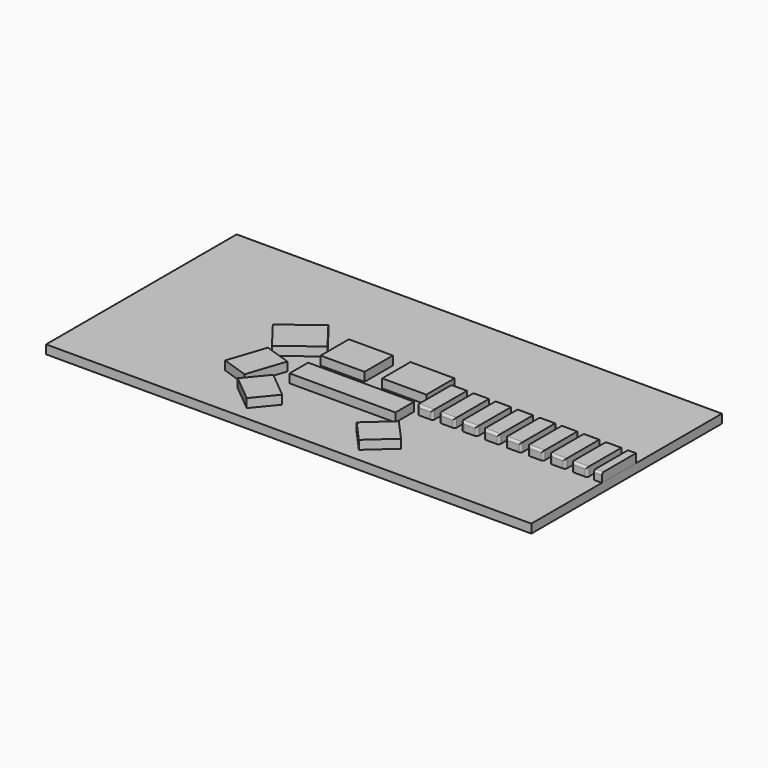
from build123d import *

# Parameters (mm, degrees)
F0_W     = 1397
F0_H     = 685.8
F1_DEPTH = 25.4
F2_W     = 304.8
F2_H     = 66.675
F3_DEPTH = 25.4
F2_W_2   = 126.4937713082
F2_H_2   = 101.6
F2_W_3   = 127
F2_H_3   = 101.6898979807
F5_DEPTH = 25.4
F6_W     = 103.9247207072
F6_H     = 25.4
F6_W_2   = 19.05
F7_DEPTH = 203.2
F8_R     = 6.35
F9_DEPTH = 25.4


with BuildPart() as f1:
    # F0 (on Top) → F1 (new body)
    with BuildSketch(Plane.XY):
        with Locations((0, -29.0562831177)):
            Rectangle(F0_W, F0_H)
    extrude(amount=F1_DEPTH)

    # F4 (on face) → F5 (join)
    with BuildSketch(Plane.XY.offset(25.4)):
        Polygon((167.4247279687, -118.0103028116), (802.4247192862, -117.9052940253), (802.4037175289, 9.0947042382), (167.4037262115, 8.9896954519), align=None)
    extrude(amount=F5_DEPTH)

    # F6 (on face) → F7 (cut)
    with BuildSketch(Plane(origin=(0.0195197257, -118.0379863045, 0), x_dir=(0.9999999863, 0.0001653682, 0), z_dir=(0.0001653682, -0.9999999863, 0))):
        with Locations((750.4428501784, 38.1)):
            Rectangle(F6_W, F6_H)
        with Locations((665.880210532, 38.1)):
            Rectangle(F6_W_2, F6_H)
        with Locations((602.380210532, 38.1)):
            Rectangle(F6_W_2, F6_H)
        with Locations((538.880210532, 38.1)):
            Rectangle(F6_W_2, F6_H)
        with Locations((475.380210532, 38.1)):
            Rectangle(F6_W_2, F6_H)
        with Locations((411.880210532, 38.1)):
            Rectangle(F6_W_2, F6_H)
        with Locations((348.380210532, 38.1)):
            Rectangle(F6_W_2, F6_H)
        with Locations((284.880210532, 38.1)):
            Rectangle(F6_W_2, F6_H)
        with Locations((221.380210532, 38.1)):
            Rectangle(F6_W_2, F6_H)
    extrude(amount=-F7_DEPTH, mode=Mode.SUBTRACT)

    # F8
    f8_edges = [f1.edges().sort_by_distance(p)[0] for p in [
        (189.649728, -118.006628, 50.8),
        (253.149727, -117.996127, 50.8),
        (316.649726, -117.985626, 50.8),
        (380.149725, -117.975125, 50.8),
        (443.649724, -117.964624, 50.8),
        (507.149723, -117.954123, 50.8),
        (570.649722, -117.943622, 50.8),
        (634.149722, -117.933121, 50.8),
        (634.12872, 9.066877, 50.8),
        (686.941359, 9.07561, 50.8),
        (686.962361, -117.924388, 50.8),
        (570.628721, 9.056376, 50.8),
        (507.128722, 9.045875, 50.8),
        (443.628722, 9.035374, 50.8),
        (189.628726, 8.993371, 50.8),
        (253.128725, 9.003872, 50.8),
        (316.628724, 9.014373, 50.8),
        (380.128723, 9.024873, 50.8),
        (167.424728, -118.010303, 38.1),
        (211.874727, -118.002952, 38.1),
        (230.924727, -117.999802, 38.1),
        (275.374726, -117.992451, 38.1),
        (294.424726, -117.989301, 38.1),
        (338.874726, -117.98195, 38.1),
        (357.924725, -117.9788, 38.1),
        (402.374725, -117.97145, 38.1),
        (421.424724, -117.968299, 38.1),
        (465.874724, -117.960949, 38.1),
        (484.924724, -117.957798, 38.1),
        (529.374723, -117.950448, 38.1),
        (548.424723, -117.947298, 38.1),
        (592.874722, -117.939947, 38.1),
        (611.924722, -117.936797, 38.1),
        (656.374721, -117.929446, 38.1),
        (211.853726, 8.997046, 38.1),
        (167.403726, 8.989695, 38.1),
        (230.903725, 9.000196, 38.1),
        (275.353725, 9.007547, 38.1),
        (294.403724, 9.010697, 38.1),
        (338.853724, 9.018048, 38.1),
        (357.903724, 9.021198, 38.1),
        (402.353723, 9.028549, 38.1),
        (421.403723, 9.031699, 38.1),
        (465.853722, 9.03905, 38.1),
        (484.903722, 9.0422, 38.1),
        (529.353721, 9.04955, 38.1),
        (548.403721, 9.052701, 38.1),
        (592.85372, 9.060051, 38.1),
        (611.90372, 9.063202, 38.1),
        (656.35372, 9.070552, 38.1),
        (675.403719, 9.073702, 38.1),
        (698.478998, 9.077518, 38.1),
    ]]
    fillet(f8_edges, radius=F8_R)


with BuildPart() as f3:
    # F2 (on face) → F3 (new body)
    with BuildSketch(Plane.XY.offset(25.4)):
        with Locations((0, -144.9437831177)):
            Rectangle(F2_W, F2_H)
    extrude(amount=F3_DEPTH)


with BuildPart() as f3b:
    # F2 (on face) → F3, piece 2 (new body)
    with BuildSketch(Plane.XY.offset(25.4)):
        with Locations((-88.6468856541, -16.3562831177)):
            Rectangle(F2_W_2, F2_H_2)
    extrude(amount=F3_DEPTH)


with BuildPart() as f3c:
    # F2 (on face) → F3, piece 3 (new body)
    with BuildSketch(Plane.XY.offset(25.4)):
        with Locations((88.9, -16.401232108)):
            Rectangle(F2_W_3, F2_H_3)
    extrude(amount=F3_DEPTH)


with BuildPart() as f3d:
    # F2 (on face) → F3, piece 4 (new body)
    with BuildSketch(Plane.XY.offset(25.4)):
        Polygon((-152.4, -332.5580318258), (-100.4607616062, -269.6472222172), (-176.6607616062, -206.7364126086), (-228.6, -269.6472222172), align=None)
    extrude(amount=F3_DEPTH)


with BuildPart() as f3e:
    # F2 (on face) → F3, piece 5 (new body)
    with BuildSketch(Plane.XY.offset(25.4)):
        Polygon((-228.6, -244.9562831177), (-192.3765150139, -136.2858281594), (-268.5765150139, -110.8858281594), (-304.8, -219.5562831177), align=None)
    extrude(amount=F3_DEPTH)


with BuildPart() as f3f:
    # F2 (on face) → F3, piece 6 (new body)
    with BuildSketch(Plane.XY.offset(25.4)):
        Polygon((-266.7, -98.9062831177), (-167.7734755747, -22.8089566367), (-231.2734755747, 59.7410433633), (-330.2, -16.3562831177), align=None)
    extrude(amount=F3_DEPTH)


with BuildPart() as f3g:
    # F2 (on face) → F3, piece 7 (new body)
    with BuildSketch(Plane.XY.offset(25.4)):
        Polygon((184.8555555556, -206.8562831177), (114.3, -270.3562831177), (171.45, -333.8562831177), (242.0055555556, -270.3562831177), align=None)
    extrude(amount=F3_DEPTH)


with BuildPart() as f9:
    # F2 (on face) → F9 (new body)
    with BuildSketch(Plane.XY.offset(25.4)):
        with Locations((0, -144.9437831177)):
            Rectangle(F2_W, F2_H)
    extrude(amount=F9_DEPTH)


with BuildPart() as f9b:
    # F2 (on face) → F9, piece 2 (new body)
    with BuildSketch(Plane.XY.offset(25.4)):
        with Locations((-88.6468856541, -16.3562831177)):
            Rectangle(F2_W_2, F2_H_2)
    extrude(amount=F9_DEPTH)


with BuildPart() as f9c:
    # F2 (on face) → F9, piece 3 (new body)
    with BuildSketch(Plane.XY.offset(25.4)):
        with Locations((88.9, -16.401232108)):
            Rectangle(F2_W_3, F2_H_3)
    extrude(amount=F9_DEPTH)


with BuildPart() as f9d:
    # F2 (on face) → F9, piece 4 (new body)
    with BuildSketch(Plane.XY.offset(25.4)):
        Polygon((-152.4, -332.5580318258), (-100.4607616062, -269.6472222172), (-176.6607616062, -206.7364126086), (-228.6, -269.6472222172), align=None)
    extrude(amount=F9_DEPTH)


with BuildPart() as f9e:
    # F2 (on face) → F9, piece 5 (new body)
    with BuildSketch(Plane.XY.offset(25.4)):
        Polygon((-228.6, -244.9562831177), (-192.3765150139, -136.2858281594), (-268.5765150139, -110.8858281594), (-304.8, -219.5562831177), align=None)
    extrude(amount=F9_DEPTH)


with BuildPart() as f9f:
    # F2 (on face) → F9, piece 6 (new body)
    with BuildSketch(Plane.XY.offset(25.4)):
        Polygon((-266.7, -98.9062831177), (-167.7734755747, -22.8089566367), (-231.2734755747, 59.7410433633), (-330.2, -16.3562831177), align=None)
    extrude(amount=F9_DEPTH)


with BuildPart() as f9g:
    # F2 (on face) → F9, piece 7 (new body)
    with BuildSketch(Plane.XY.offset(25.4)):
        Polygon((184.8555555556, -206.8562831177), (114.3, -270.3562831177), (171.45, -333.8562831177), (242.0055555556, -270.3562831177), align=None)
    extrude(amount=F9_DEPTH)


solid = Compound([f1.part, f3.part, f3b.part, f3c.part, f3d.part, f3e.part, f3f.part, f3g.part, f9.part, f9b.part, f9c.part, f9d.part, f9e.part, f9f.part, f9g.part])
